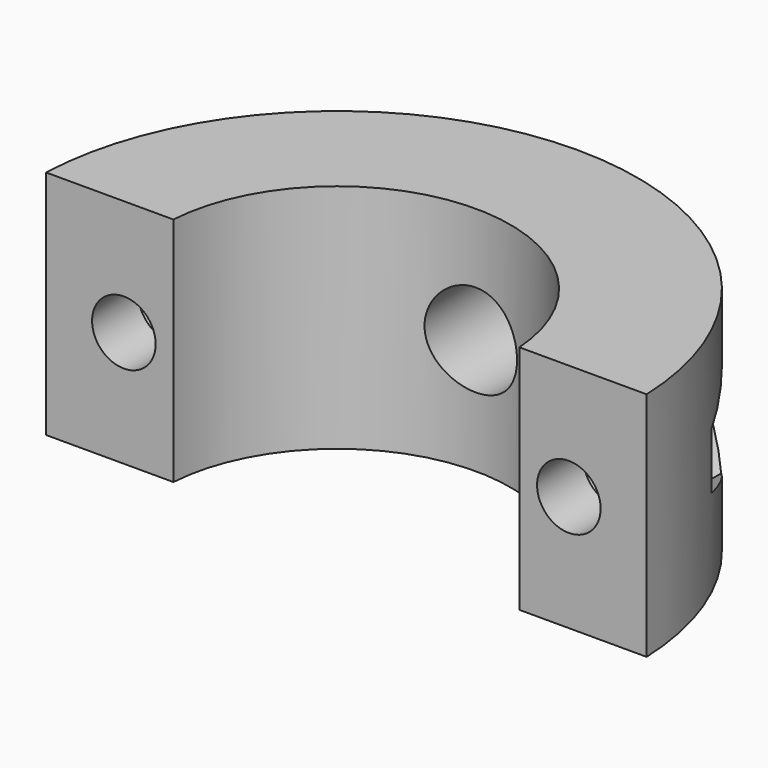
from build123d import *

# Parameters (mm, degrees)
PAD_DEPTH       = 20
SKETCH001_R     = 2.75
SKETCH001_R_2   = 4
POCKET_DEPTH    = 25.001
SKETCH002_R     = 4.75
POCKET001_DEPTH = 20.001


with BuildPart() as part:
    # Sketch → Pad (new body)
    with BuildSketch(Plane.XY):
        with BuildLine():
            ThreePointArc((14.96663, 0), (0, 14), (-14.96663, 0))
            Line((-25.980762, 0), (-14.96663, 0))
            ThreePointArc((25.980762, 0), (0, 25), (-25.980762, 0))
            Line((14.96663, 0), (25.980762, 0))
        make_face()
    extrude(amount=PAD_DEPTH)

    # Sketch001 (on Face2 of Pad) → Pocket (cut, through all)
    with BuildSketch(Plane.XZ):
        with Locations((-19.25, 10)):
            Circle(SKETCH001_R)
        with Locations((19.25, 10)):
            Circle(SKETCH001_R)
        with Locations((0, 10)):
            Circle(SKETCH001_R_2)
    extrude(amount=-POCKET_DEPTH, mode=Mode.SUBTRACT)

    # Sketch002 (on DatumPlane) → Pocket001 (cut, through all)
    with BuildSketch(Plane.XZ.offset(-5)):
        with Locations((-19.25, 10)):
            Circle(SKETCH002_R)
        Polygon((19.25, 5.092523), (23.5, 7.546261), (23.5, 12.453739), (19.25, 14.907477), (15, 12.453739), (15, 7.546261), align=None)
    extrude(amount=-POCKET001_DEPTH, mode=Mode.SUBTRACT)


solid = part.part
